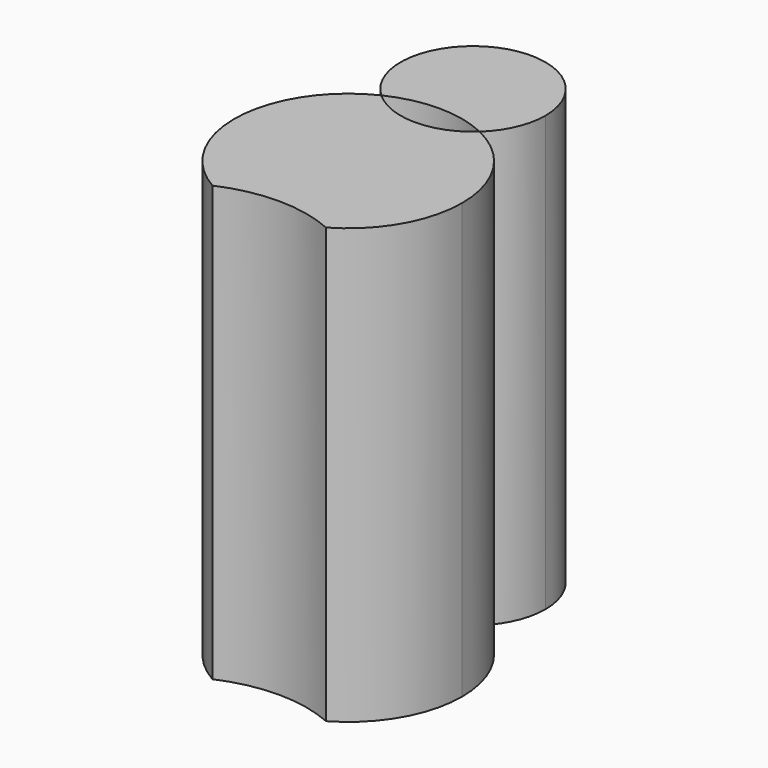
from build123d import *

# Parameters (mm, degrees)
F1_DEPTH = 152.4


with BuildPart() as f1:
    # F0 (on Top) → F1 (new body)
    with BuildSketch(Plane.XY):
        with BuildLine():
            ThreePointArc((-19.920567, -7.032697), (0, -2.824004), (19.920567, -7.032697))
            ThreePointArc((19.920567, -7.032697), (34.581711, 7.594029), (39.949602, 27.595929))
            ThreePointArc((39.949602, 27.595929), (33.79436, 48.901137), (17.225375, 63.641139))
            ThreePointArc((17.225375, 63.641139), (0, 56.907859), (-17.225375, 63.641139))
            ThreePointArc((-17.225375, 63.641139), (-39.920584, 29.118326), (-19.920567, -7.032697))
        make_face()
        with BuildLine():
            ThreePointArc((25.4, 82.307859), (-10.189099, 105.574622), (-17.225375, 63.641139))
            ThreePointArc((-17.225375, 63.641139), (0, 67.545531), (17.225375, 63.641139))
            ThreePointArc((17.225375, 63.641139), (23.266763, 72.11876), (25.4, 82.307859))
        make_face()
    extrude(amount=F1_DEPTH)


solid = f1.part
